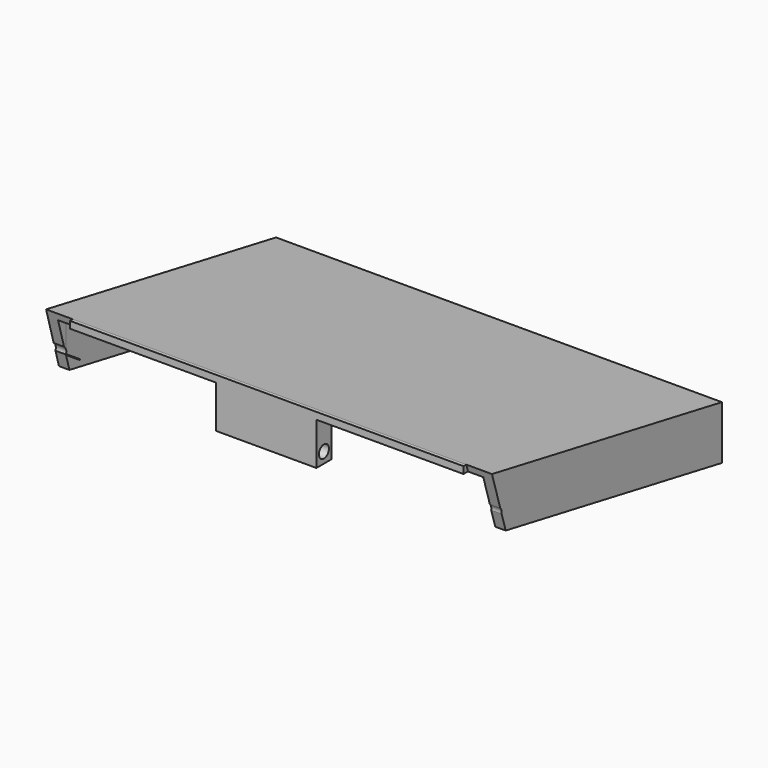
from build123d import *

# Parameters (mm, degrees)
F1_DEPTH  = 60
F2_T      = -1.5
F4_DEPTH  = 1.7
F6_DEPTH  = 1.5
F8_DEPTH  = 7.7
F9_DEPTH  = 0.1
F10_DEPTH = 0.4
F11_DEPTH = 0.5
F13_R     = 0.9
F14_DEPTH = 25
F15_DEPTH = 63.1
F17_DEPTH = 1.8
F19_DEPTH = 1.69
F20_DEPTH = 1.6
F21_DEPTH = 2
F22_DEPTH = 2
F23_DEPTH = 2
F24_DEPTH = 2
F25_DEPTH = 0.5
F26_DEPTH = 0.5
F27_DEPTH = 25
F28_DEPTH = 0.5


with BuildPart() as f1:
    # F0 (on Right) → F1 (new body)
    with BuildSketch(Plane.YZ):
        Polygon((16.1535342058, -7.67995), (16.1535342058, 0), (-25.1004657942, 7.67995), (-25.1004657942, 0), align=None)
    extrude(amount=F1_DEPTH)

    # F2
    f2_openings = [f1.faces().sort_by_distance(p)[0] for p in [
        (30, -4.473466, -3.839975),
    ]]
    offset(amount=F2_T, openings=f2_openings)

    # F3 (on face) → F4 (cut)
    with BuildSketch(Plane.XZ.offset(25.1004657942)):
        Polygon((30, 0), (37.3, 0), (58.5109069943, 0), (58.5109069943, 6.6873678006), (1.489095157, 6.6873678006), (1.489095157, 0), (22.7, 0), align=None)
    extrude(amount=-F4_DEPTH, mode=Mode.SUBTRACT)

    # F5 (on face) → F6 (cut)
    with BuildSketch(Plane(origin=(0, -0.8407565289, -4.5162494345), x_dir=(1, 0, 0), z_dir=(0, -0.1830181807, -0.9831095288))):
        Polygon((1.5, 23.1507361077), (58.5, 23.1507361077), (58.5109069943, 24.6765070987), (1.489095157, 24.6765070987), align=None)
    extrude(amount=-F6_DEPTH, mode=Mode.SUBTRACT)

    # F7 (on face) → F8 (join)
    with BuildSketch(Plane(origin=(0, 0, 6.6873678006), x_dir=(1, 0, 0), z_dir=(0, 0, -1))):
        Polygon((22.8000010757, 23.4004657942), (30.0000010757, 23.4004657942), (37.2000010757, 23.4004657942), (37.2000010757, 25.1004657942), (22.8000010757, 25.1004657942), align=None)
    extrude(amount=F8_DEPTH)

    # F9 (add): a face of the model
    f9_faces = [f1.faces().sort_by_distance(p)[0] for p in [
        (29.9999984717, -25.1004657942, 4.2501617501),
    ]]
    extrude(f9_faces, amount=F9_DEPTH)

    # F10 (add): a face of the model
    f10_faces = [f1.faces().sort_by_distance(p)[0] for p in [
        (29.9999984717, -25.2004657942, 4.2501617501),
    ]]
    extrude(f10_faces, amount=F10_DEPTH)

    # F11 (add): a face of the model
    f11_faces = [f1.faces().sort_by_distance(p)[0] for p in [
        (30.0000010757, -23.4004657942, 2.4125352339),
    ]]
    extrude(f11_faces, amount=F11_DEPTH)

    # F13 (on face) → F14 (join)
    with BuildSketch(Plane(origin=(22.8000010757, 0, 0), x_dir=(0, -1, 0), z_dir=(-1, 0, 0))):
        with Locations((24.2503285408, 2.1311247256)):
            Circle(F13_R)
    extrude(amount=F14_DEPTH)

    # F15 (cut): a face of the model
    f15_faces = [f1.faces().sort_by_distance(p)[0] for p in [
        (-2.1999989243, -24.2503285408, 2.1311247256),
    ]]
    extrude(f15_faces, amount=-F15_DEPTH, mode=Mode.SUBTRACT)

    # F16 (on face) → F17 (cut)
    with BuildSketch(Plane(origin=(0, 0, 0), x_dir=(0, -1, 0), z_dir=(-1, 0, 0))):
        Polygon((25.1004657942, 7.67995), (22.7930747999, -0.4295498004), (25.6004657942, 0), (25.6004657942, 7.67995), align=None)
    extrude(amount=-F17_DEPTH, mode=Mode.SUBTRACT)

    # F18 (on face) → F19 (cut)
    with BuildSketch(Plane.YZ.offset(60)):
        Polygon((-22.6419516364, -0.4576832745), (-25.1004657942, 7.67995), (-25.6004657942, 7.67995), (-25.6004657942, 0), align=None)
    extrude(amount=-F19_DEPTH, mode=Mode.SUBTRACT)

    # F20 (cut): a face of the model
    f20_faces = [f1.faces().sort_by_distance(p)[0] for p in [
        (30.0000010757, -24.2504657942, -1.0126321994),
    ]]
    extrude(f20_faces, amount=-F20_DEPTH, mode=Mode.SUBTRACT)

    # F21 (add): a face of the model
    f21_faces = [f1.faces().sort_by_distance(p)[0] for p in [
        (0, -3.8923715411, -0.0707367211),
    ]]
    extrude(f21_faces, amount=F21_DEPTH)

    # F22 (cut): faces of the model
    f22_faces = [f1.faces().sort_by_distance(p)[0] for p in [
        (1.5, -4.3223600686, -0.7846449221),
        (1.489095157, -23.887211668, 5.1322390537),
    ]]
    extrude(f22_faces, amount=-F22_DEPTH, mode=Mode.SUBTRACT)

    # F23 (add): a face of the model
    f23_faces = [f1.faces().sort_by_distance(p)[0] for p in [
        (60, -3.8610992798, -0.074441199),
    ]]
    extrude(f23_faces, amount=F23_DEPTH)

    # F24 (cut): faces of the model
    f24_faces = [f1.faces().sort_by_distance(p)[0] for p in [
        (58.5109069943, -23.8729043508, 5.1821889961),
        (58.5, -4.2998130012, -0.7863611565),
    ]]
    extrude(f24_faces, amount=-F24_DEPTH, mode=Mode.SUBTRACT)

    # F25 (cut): a face of the model
    f25_faces = [f1.faces().sort_by_distance(p)[0] for p in [
        (30, 14.6535342058, -4.3236166646),
    ]]
    extrude(f25_faces, amount=-F25_DEPTH, mode=Mode.SUBTRACT)

    # F26 (cut): a face of the model
    f26_faces = [f1.faces().sort_by_distance(p)[0] for p in [
        (30, 15.1535342058, -4.3236166646),
    ]]
    extrude(f26_faces, amount=-F26_DEPTH, mode=Mode.SUBTRACT)

    # F27 (cut): a face of the model
    f27_faces = [f1.faces().sort_by_distance(p)[0] for p in [
        (30, 15.1535342058, -7.4007061691),
    ]]
    extrude(f27_faces, amount=-F27_DEPTH, mode=Mode.SUBTRACT)

    # F28 (add): a face of the model
    f28_faces = [f1.faces().sort_by_distance(p)[0] for p in [
        (30, 15.6535342058, -4.4166979416),
    ]]
    extrude(f28_faces, amount=F28_DEPTH)


solid = f1.part
